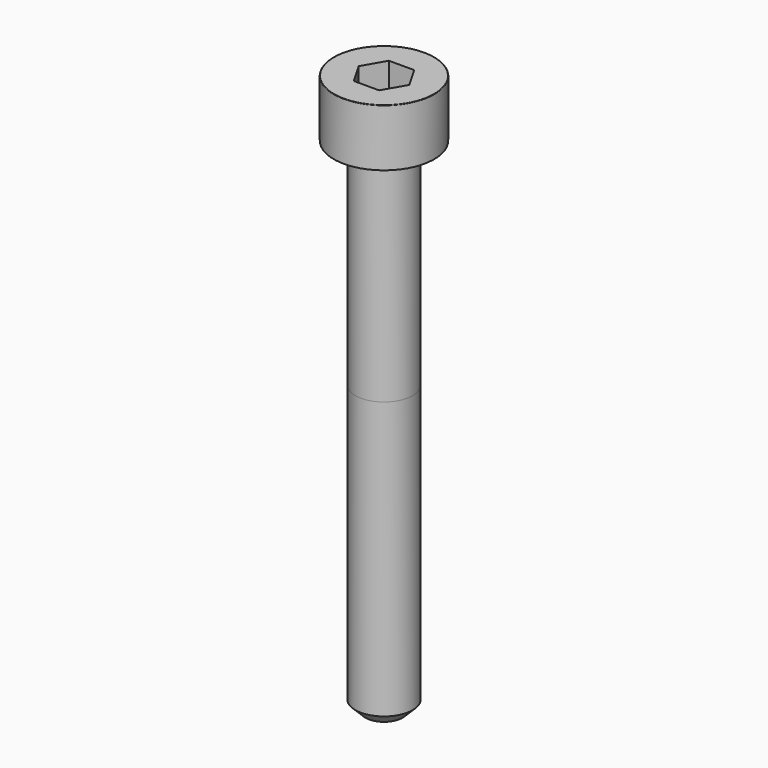
from build123d import *

# Parameters (mm, degrees)
POCKET_DEPTH = 3.06


with BuildPart() as part:
    # Sketch → Revolve (revolve)
    with BuildSketch(Plane.YZ):
        with BuildLine():
            Line((1.999, 0), (3.5, 0))
            Line((3.5, 0), (3.5, 3.97229))
            ThreePointArc((3.5, 3.97229), (3.491884, 3.991884), (3.47229, 4))
            Line((3.47229, 4), (0, 4))
            Line((0, -35), (0, 4))
            Line((1.3, -35), (0, -35))
            Line((2, -34.3), (1.3, -35))
            Line((2, -15), (2, -34.3))
            Line((1.999, 0), (2, -15))
        make_face()
    revolve(axis=Axis((0, 0, 0), (0, 0, 1)))

    # Sketch001 → Pocket (cut)
    with BuildSketch(Plane.XY.offset(4)):
        Polygon((1.766692, 0), (0.883346, 1.53), (-0.883346, 1.53), (-1.766692, 0), (-0.883346, -1.53), (0.883346, -1.53), align=None)
    extrude(amount=-POCKET_DEPTH, mode=Mode.SUBTRACT)


solid = part.part
